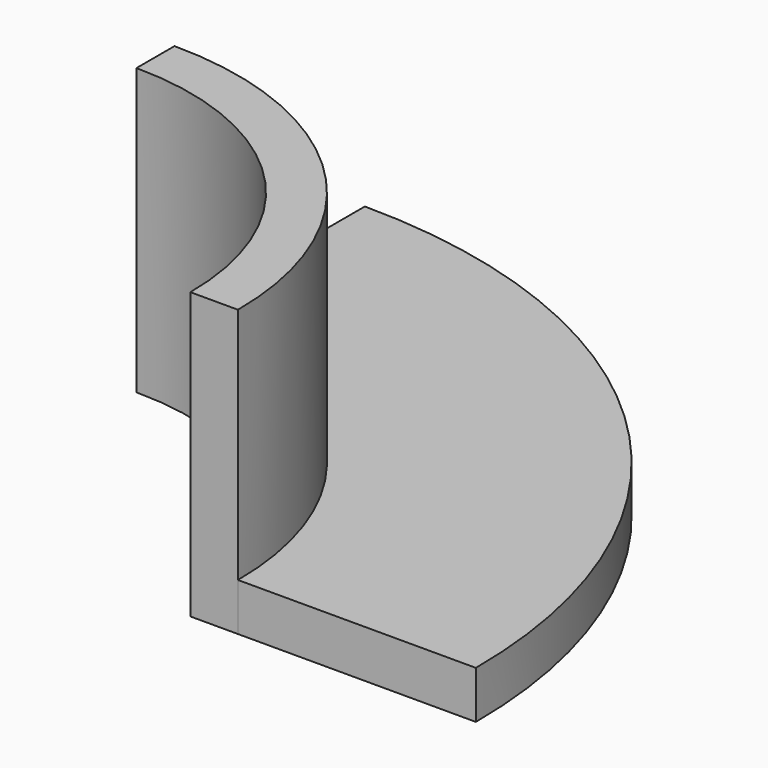
from build123d import *

# Parameters (mm, degrees)
F2_DEPTH = 3
F3_DEPTH = 18
F4_DEPTH = 3


with BuildPart() as f2:
    # F0 (on Top) → F2 (new body)
    with BuildSketch(Plane.XY):
        with BuildLine():
            Line((20, 0), (35, 0))
            ThreePointArc((35, 0), (24.7487373415, 24.7487373415), (0, 35))
            Line((0, 35), (0, 20))
            ThreePointArc((0, 20), (14.1421356237, 14.1421356237), (20, 0))
        make_face()
    extrude(amount=F2_DEPTH)

    # F0 (on Top) → F3 (join)
    with BuildSketch(Plane.XY):
        with BuildLine():
            Line((17, 0), (20, 0))
            ThreePointArc((20, 0), (14.1421356237, 14.1421356237), (0, 20))
            Line((0, 20), (0, 17))
            ThreePointArc((0, 17), (12.0208152802, 12.0208152802), (17, 0))
        make_face()
    extrude(amount=F3_DEPTH)


with BuildPart() as f4:
    # F1 (on Top) → F4 (new body)
    with BuildSketch(Plane.XY):
        with BuildLine():
            Line((20, 0), (35, 0))
            ThreePointArc((35, 0), (24.7487373415, 24.7487373415), (0, 35))
            Line((0, 35), (0, 20))
            ThreePointArc((0, 20), (14.1421356237, 14.1421356237), (20, 0))
        make_face()
    extrude(amount=F4_DEPTH)


solid = Compound([f2.part, f4.part])
